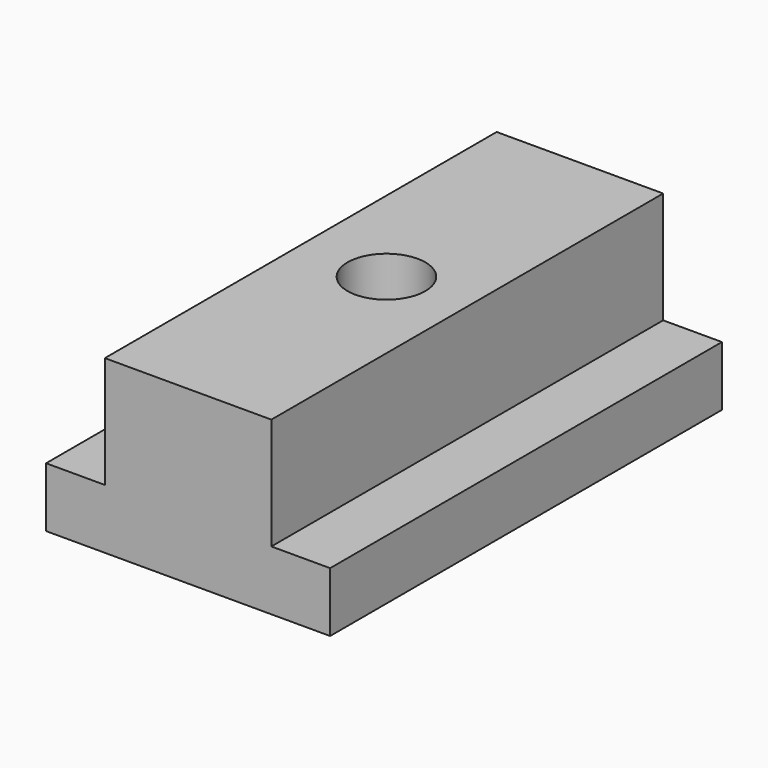
from build123d import *

# Parameters (mm, degrees)
F1_DEPTH = 25.4
F2_R     = 2.0193
F3_DEPTH = 8.891


with BuildPart() as f1:
    # F0 (on Front) → F1 (new body)
    with BuildSketch(Plane.XZ):
        Polygon((0, 3.0988), (0, 0), (14.732, 0), (14.732, 3.0988), (11.684, 3.0988), (11.684, 8.89), (3.048, 8.89), (3.048, 3.0988), align=None)
    extrude(amount=-F1_DEPTH)

    # F2 (on Top) → F3 (cut, through all)
    with BuildSketch(Plane.XY):
        with Locations((7.493, 12.7)):
            Circle(F2_R)
    extrude(amount=F3_DEPTH, mode=Mode.SUBTRACT)


solid = f1.part
